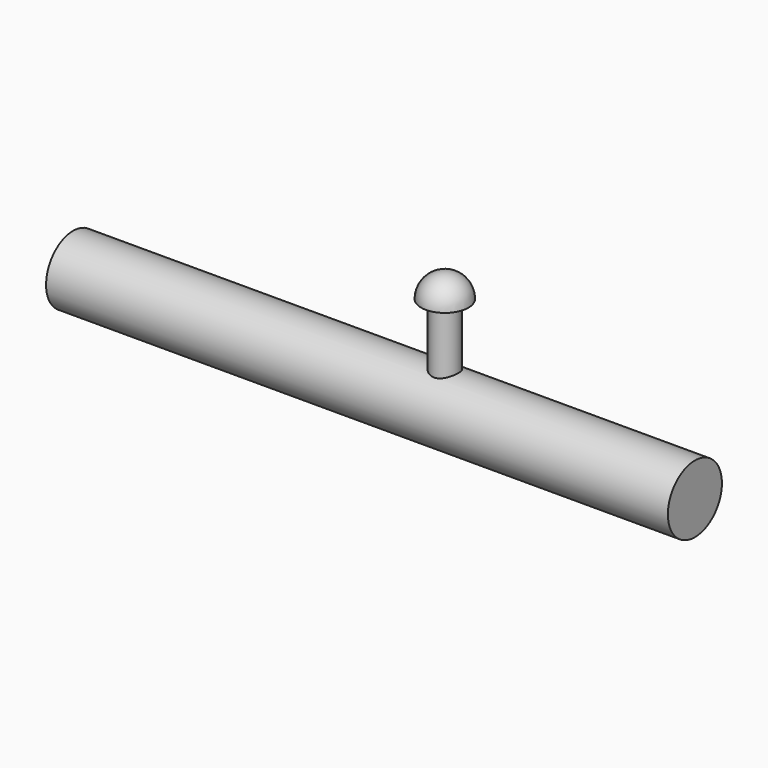
from build123d import *

# Parameters (mm, degrees)
SPHERE_ANGLE         = 180
SPHERE_ROLL_ANGLE    = 90
CYLINDER001_R        = 2
CYLINDER001_DEPTH    = 10
CYLINDER_R           = 5
CYLINDER_DEPTH       = 92
CYLINDER_PITCH_ANGLE = 90


with BuildPart() as sphere:
    # Sphere → Sphere (revolve)
    with BuildSketch(Plane.XZ):
        with BuildLine():
            ThreePointArc((0, -3.5), (3.5, 0), (0, 3.5))
            Line((0, 3.5), (0, -3.5))
        make_face()
    revolve(axis=Axis((0, 0, 0), (0, 0, 1)), revolution_arc=SPHERE_ANGLE)


with BuildPart() as sphere_1:
    # Sphere roll: moved
    add(sphere.part.rotate(Axis((0, 0, 0), (1, 0, 0)), SPHERE_ROLL_ANGLE))


with BuildPart() as sphere_2:
    # Sphere placement: moved
    add(sphere_1.part.moved(Location((55, 0, 19))))


with BuildPart() as cylinder001:
    # Cylinder001 → Cylinder001 (new body)
    with BuildSketch(Plane(origin=(55, 0, 9), x_dir=(1, 0, 0), z_dir=(0, 0, 1))):
        Circle(CYLINDER001_R)
    extrude(amount=CYLINDER001_DEPTH)


with BuildPart() as fusion001:
    # Cylinder → Cylinder (new body)
    with BuildSketch(Plane.XY):
        Circle(CYLINDER_R)
    extrude(amount=CYLINDER_DEPTH)


with BuildPart() as fusion001_1:
    # Cylinder pitch: moved
    add(fusion001.part.rotate(Axis((0, 0, 0), (0, 1, 0)), CYLINDER_PITCH_ANGLE))


with BuildPart() as fusion001_2:
    # Cylinder placement: moved
    add(fusion001_1.part.moved(Location((0, 0, 5))))

    # Fusion: union Cylinder001
    add(cylinder001.part)

    # Fusion001: union Sphere
    add(sphere_2.part)


solid = fusion001_2.part
